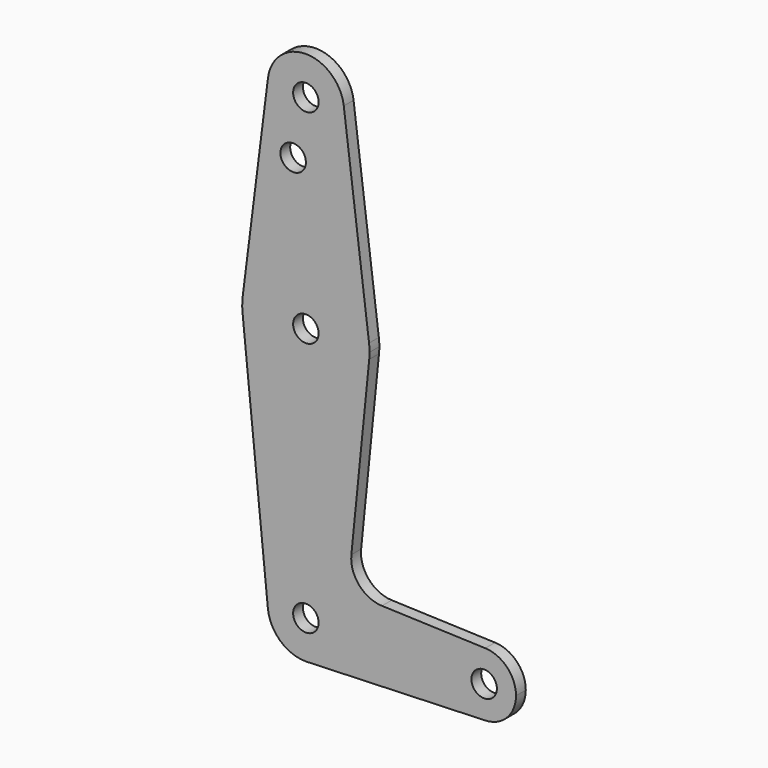
from build123d import *

# Parameters (mm, degrees)
F0_R     = 3.175
F1_DEPTH = 3.048


with BuildPart() as f1:
    # F0 (on Front) → F1 (new body)
    with BuildSketch(Plane.XZ):
        with BuildLine():
            ThreePointArc((-9.450293, 115.490625), (-0.596483, 104.793695), (9.525, 114.3))
            ThreePointArc((9.525, 114.3), (9.506305, 114.896483), (9.450293, 115.490625))
            ThreePointArc((9.450293, 115.490625), (0, 123.825), (-9.450293, 115.490625))
        make_face()
        with Locations((0, 114.3)):
            Circle(F0_R, mode=Mode.SUBTRACT)
        with BuildLine():
            ThreePointArc((9.450293, 115.490625), (9.506305, 114.896483), (9.525, 114.3))
            ThreePointArc((9.525, 114.3), (-0.596483, 104.793695), (-9.450293, 115.490625))
            Line((-9.450293, 115.490625), (-15.750488, 65.484375))
            ThreePointArc((-15.750488, 65.484375), (0, 79.375), (15.750488, 65.484375))
            Line((15.750488, 65.484375), (9.450293, 115.490625))
        make_face()
        with Locations((-3.175, 100.0252)):
            Circle(F0_R, mode=Mode.SUBTRACT)
        with BuildLine():
            ThreePointArc((15.875, 63.5), (15.843841, 64.494139), (15.750488, 65.484375))
            ThreePointArc((15.750488, 65.484375), (0, 79.375), (-15.750488, 65.484375))
            ThreePointArc((-15.750488, 65.484375), (-15.873744, 63.699705), (-15.795426, 61.9125))
            ThreePointArc((-15.795426, 61.9125), (0, 47.625), (15.795426, 61.9125))
            ThreePointArc((15.795426, 61.9125), (15.855094, 62.705253), (15.875, 63.5))
        make_face()
        with Locations((0, 63.5)):
            Circle(F0_R, mode=Mode.SUBTRACT)
        with BuildLine():
            ThreePointArc((15.795426, 61.9125), (0, 47.625), (-15.795426, 61.9125))
            Line((-15.795426, 61.9125), (-9.477255, -0.9525))
            ThreePointArc((-9.477255, -0.9525), (-7.063929, 6.389564), (0, 9.525))
            ThreePointArc((0, 9.525), (0.338886, 9.51897), (0.677344, 9.500886))
            ThreePointArc((0.677344, 9.500886), (6.970557, 6.491299), (9.525, 0))
            ThreePointArc((9.525, 0), (6.970557, -6.491299), (0.677344, -9.500886))
            Line((0.677344, -9.500886), (44.732405, -7.932475))
            ThreePointArc((44.732405, -7.932475), (36.5125, 0.000539), (44.733482, 7.932436))
            Line((44.733482, 7.932436), (18.9676, 8.853234))
            ThreePointArc((18.9676, 8.853234), (13.2612, 11.571359), (11.341187, 17.593382))
            Line((11.341187, 17.593382), (15.795426, 61.9125))
        make_face()
        with BuildLine():
            ThreePointArc((0, 9.525), (-7.063929, 6.389564), (-9.477255, -0.9525))
            ThreePointArc((-9.477255, -0.9525), (-6.389564, -7.063929), (0, -9.525))
            Line((0, -9.525), (0.677344, -9.500886))
            ThreePointArc((0.677344, -9.500886), (6.970557, -6.491299), (9.525, 0))
            ThreePointArc((9.525, 0), (6.970557, 6.491299), (0.677344, 9.500886))
            Line((0.677344, 9.500886), (0, 9.525))
        make_face()
        Circle(F0_R, mode=Mode.SUBTRACT)
        with BuildLine():
            Line((0.677344, -9.500886), (0, -9.525))
            ThreePointArc((0, -9.525), (0.338886, -9.51897), (0.677344, -9.500886))
        make_face()
        with BuildLine():
            ThreePointArc((52.3875, 0), (50.162007, 5.511523), (44.733482, 7.932436))
            ThreePointArc((44.733482, 7.932436), (36.5125, 0.000539), (44.732405, -7.932475))
            ThreePointArc((44.732405, -7.932475), (50.161633, -5.51191), (52.3875, 0))
        make_face()
        with Locations((44.45, 0)):
            Circle(F0_R, mode=Mode.SUBTRACT)
    extrude(amount=F1_DEPTH)


solid = f1.part
